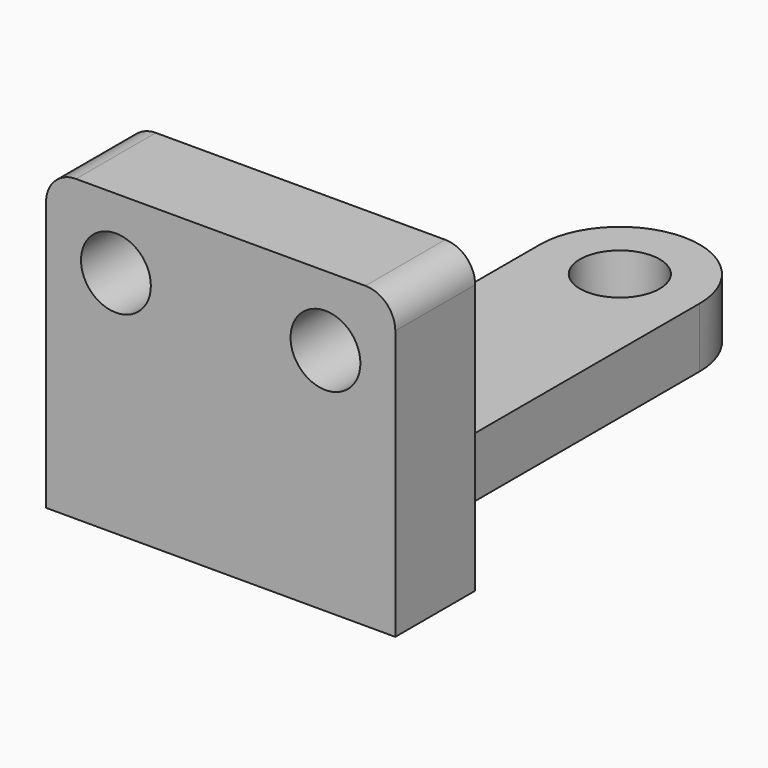
from build123d import *

# Parameters (mm, degrees)
F0_R     = 7
F1_DEPTH = 20
F2_R     = 8
F3_DEPTH = 12
F5_DEPTH = 25
F8_DEPTH = 6


with BuildPart() as f1:
    # F0 (on Front) → F1 (new body)
    with BuildSketch(Plane.XZ):
        with BuildLine():
            Line((-35, 54), (-35, 0))
            Line((-35, 0), (35, 0))
            Line((35, 0), (35, 54))
            ThreePointArc((35, 54), (33.242641, 58.242641), (29, 60))
            Line((29, 60), (-29, 60))
            ThreePointArc((-29, 60), (-33.242641, 58.242641), (-35, 54))
        make_face()
        with Locations((-21, 46)):
            Circle(F0_R, mode=Mode.SUBTRACT)
        with Locations((21, 46)):
            Circle(F0_R, mode=Mode.SUBTRACT)
        with BuildLine():
            Line((-35, 54), (-35, 0))
            Line((-35, 0), (35, 0))
            Line((35, 0), (35, 54))
            ThreePointArc((35, 54), (33.242641, 58.242641), (29, 60))
            Line((29, 60), (-29, 60))
            ThreePointArc((-29, 60), (-33.242641, 58.242641), (-35, 54))
        make_face()
        with Locations((-21, 46)):
            Circle(F0_R, mode=Mode.SUBTRACT)
        with Locations((21, 46)):
            Circle(F0_R, mode=Mode.SUBTRACT)
    extrude(amount=F1_DEPTH)

    # F2 (on face) → F3 (join)
    with BuildSketch(Plane(origin=(0, 0, 0), x_dir=(1, 0, 0), z_dir=(0, 0, -1))):
        with BuildLine():
            Line((22, 0), (-22, 0))
            ThreePointArc((-22, 0), (-17.757359, -1.757359), (-16, -6))
            Line((-16, -6), (-16, -80))
            ThreePointArc((-16, -80), (0, -96), (16, -80))
            Line((16, -80), (16, -6))
            ThreePointArc((16, -6), (17.757359, -1.757359), (22, 0))
        make_face()
        with Locations((0, -80)):
            Circle(F2_R, mode=Mode.SUBTRACT)
    extrude(amount=-F3_DEPTH)

    # F7 (on Right) → F8 (join, symmetric)
    with BuildSketch(Plane.YZ):
        with BuildLine():
            Line((0, 12), (30, 12))
            ThreePointArc((30, 12), (8.786797, 20.786797), (0, 42))
            Line((0, 42), (0, 12))
        make_face()
    extrude(amount=F8_DEPTH, both=True)


with BuildPart() as f5:
    # F4 (on Right) → F5 (new body)
    with BuildSketch(Plane.YZ):
        Polygon((8.827168, -95.900685), (44.855885, -95.900685), (44.855885, -23.484161), (8.827168, -23.484161), (8.827168, -49.02795), (8.827168, -76.342739), align=None)
    extrude(amount=F5_DEPTH)


solid = f1.part
